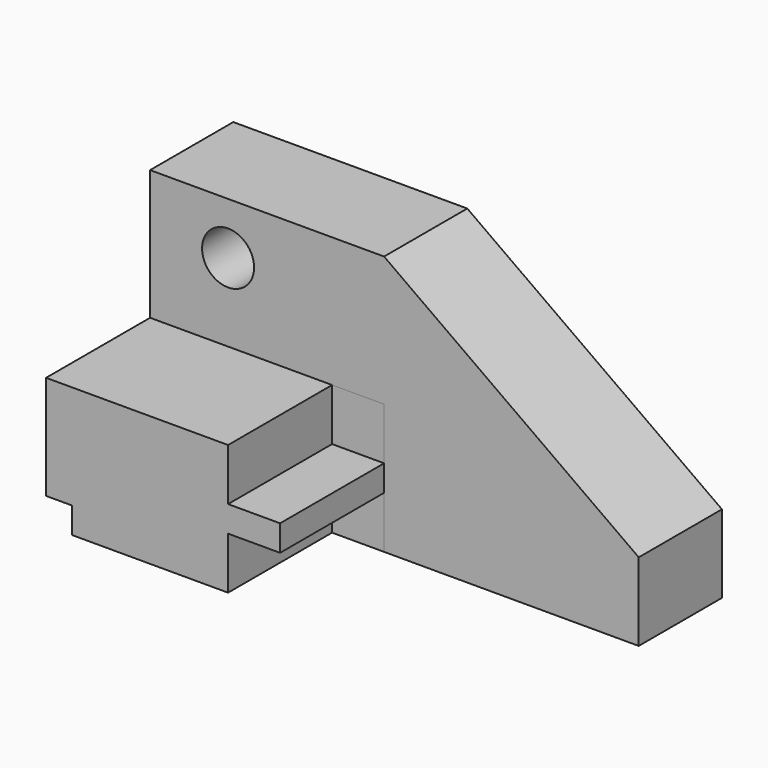
from build123d import *

# Parameters (mm, degrees)
F0_R     = 6.35
F1_DEPTH = 25.4
F0_W     = 57.15
F0_H     = 31.75
F2_DEPTH = 57.15
F3_W     = 6.35
F3_H     = 6.35
F3_W_2   = 12.7
F3_H_2   = 12.7
F4_DEPTH = 31.75


with BuildPart() as f1:
    # F0 (on Front) → F1 (new body)
    with BuildSketch(Plane.XZ):
        Polygon((-57.15, 63.5), (-57.15, 31.75), (0, 31.75), (0, 0), (62.187869, 0), (62.187869, 19.05), (0, 63.5), align=None)
        with Locations((-38.1, 50.8)):
            Circle(F0_R, mode=Mode.SUBTRACT)
    extrude(amount=F1_DEPTH)


with BuildPart() as f2:
    # F0 (on Front) → F2 (new body)
    with BuildSketch(Plane.XZ):
        with Locations((-28.575, 15.875)):
            Rectangle(F0_W, F0_H)
    extrude(amount=F2_DEPTH)

    # F3 (on face) → F4 (cut)
    with BuildSketch(Plane.XZ.offset(57.15)):
        with Locations((-53.975, 3.175)):
            Rectangle(F3_W, F3_H)
        with Locations((-6.35, 25.4)):
            Rectangle(F3_W_2, F3_H_2)
        with Locations((-6.35, 6.35)):
            Rectangle(F3_W_2, F3_H_2)
    extrude(amount=-F4_DEPTH, mode=Mode.SUBTRACT)


solid = Compound([f1.part, f2.part])
